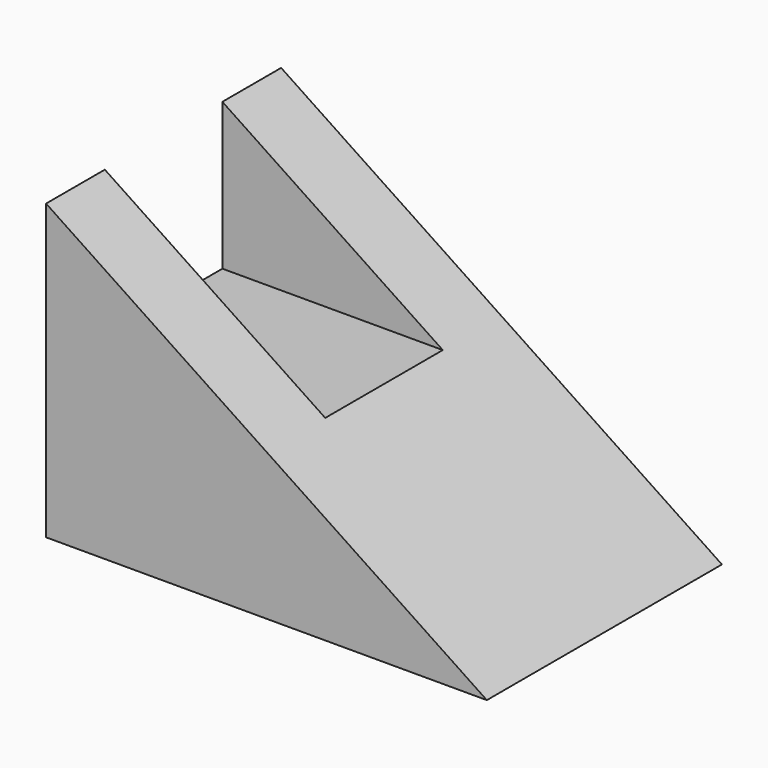
from build123d import *

# Parameters (mm, degrees)
F1_DEPTH = 25.4
F3_START = 6.35
F3_DEPTH = 12.7


with BuildPart() as f1:
    # F0 (on Front) → F1 (new body)
    with BuildSketch(Plane.XZ):
        Polygon((0, 25.4), (0, 0), (38.1, 0), align=None)
    extrude(amount=F1_DEPTH)

    # F2 (on Front) → F3 (cut)
    with BuildSketch(Plane.XZ.offset(F3_START)):
        Polygon((19.05, 12.7), (0, 25.4), (0, 12.7), align=None)
    extrude(amount=F3_DEPTH, mode=Mode.SUBTRACT)


solid = f1.part
